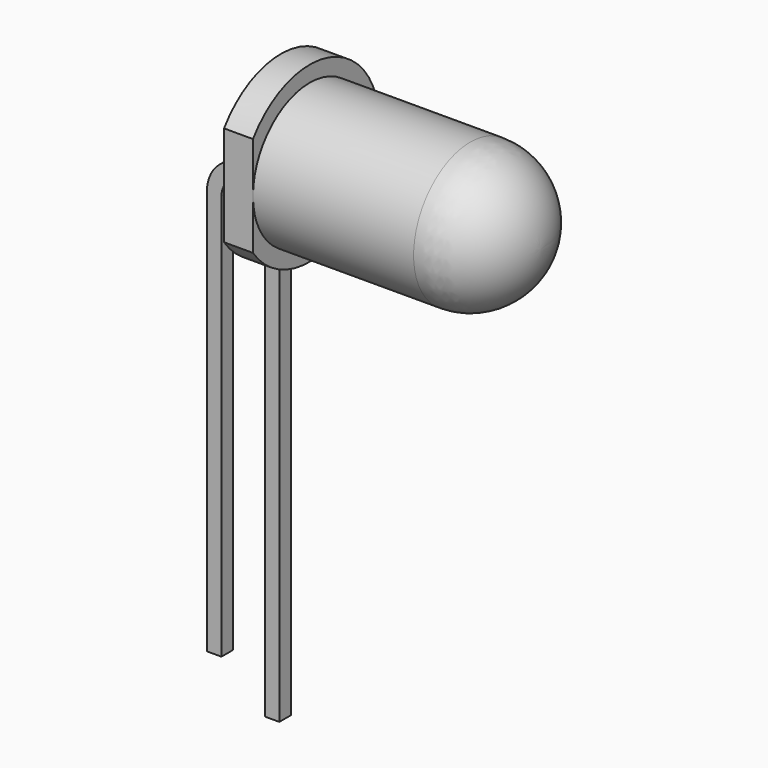
from build123d import *

# Parameters (mm, degrees)
SKETCH011_W              = 0.5
SKETCH011_H              = 0.5
SKETCH012_W              = 0.5
SKETCH012_H              = 0.5
ADDITIVEPIPE003_FACE21_W = 0.5
ADDITIVEPIPE003_FACE21_H = 0.5
PAD002_DEPTH             = 3
POCKET001_DEPTH          = 5


with BuildPart() as part:
    # Sketch008 → Revolution001 (revolve)
    with BuildSketch(Plane.XY):
        with BuildLine():
            Line((0, 2.45), (-5.55, 2.45))
            Line((-5.55, 2.45), (-5.55, 3))
            Line((-5.55, 3), (-6.55, 3))
            Line((-6.55, 3), (-6.55, 0))
            Line((2.45, 0), (-6.55, 0))
            ThreePointArc((2.45, 0), (1.732412, 1.732412), (0, 2.45))
        make_face()
    revolve(axis=Axis((0, 0, 0), (1, 0, 0)))

    # AdditivePipe002: sweep along a path in Sketch010
    with BuildLine(Plane.XZ) as additivepipe002_path:
        Line((-6.55, 0), (-6.65, 0))
        ThreePointArc((-6.65, 0), (-7.357107, -0.292893), (-7.65, -1))
        Line((-7.65, -1), (-7.65, -15))
    # Sketch011 (on Face4 of Revolution001) → AdditivePipe002 (sweep)
    with BuildSketch(Plane(origin=(-6.55, 0, 0), x_dir=(0, -1, 0), z_dir=(-1, 0, 0))):
        with Locations((1.25, 0)):
            Rectangle(SKETCH011_W, SKETCH011_H)
    sweep(path=additivepipe002_path.line)

    # AdditivePipe003: sweep along a path in Sketch010
    with BuildLine(Plane.XZ) as additivepipe003_path:
        Line((-6.55, 0), (-6.65, 0))
        ThreePointArc((-6.65, 0), (-7.357107, -0.292893), (-7.65, -1))
        Line((-7.65, -1), (-7.65, -15))
    # Sketch012 (on Face4 of Revolution001) → AdditivePipe003 (sweep)
    with BuildSketch(Plane(origin=(-6.55, 0, 0), x_dir=(0, -1, 0), z_dir=(-1, 0, 0))):
        with Locations((-1.25, 0)):
            Rectangle(SKETCH012_W, SKETCH012_H)
    sweep(path=additivepipe003_path.line)

    # AdditivePipe003 Face21 → Pad002 (new)
    with BuildSketch(Plane(origin=(-7.65, 1.25, -15), x_dir=(0, -1, 0), z_dir=(0, 0, -1))):
        Rectangle(ADDITIVEPIPE003_FACE21_W, ADDITIVEPIPE003_FACE21_H)
    extrude(amount=PAD002_DEPTH)

    # Sketch013 (on Face3 of Pad002) → Pocket001 (cut)
    with BuildSketch(Plane.YZ.offset(-5.55)):
        with BuildLine():
            Line((-2.45, 1.731329), (-2.45, -1.731329))
            ThreePointArc((-2.45, 1.731329), (-3.000002, 0), (-2.45, -1.731329))
        make_face()
    extrude(amount=-POCKET001_DEPTH, mode=Mode.SUBTRACT)


solid = part.part
